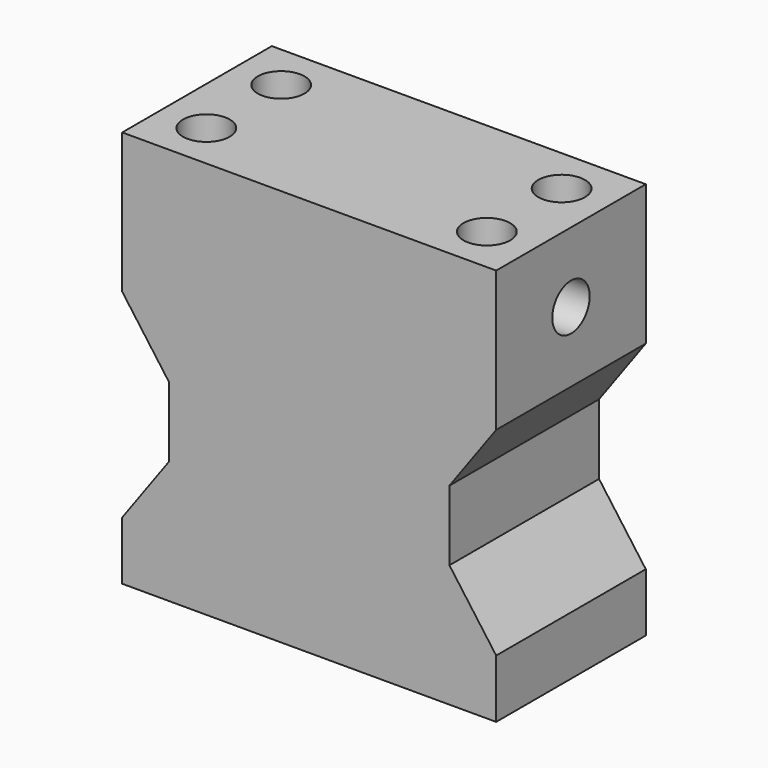
from build123d import *

# Parameters (mm, degrees)
PAD026_DEPTH            = 8
SKETCH051_R             = 2
POCKET019_DEPTH         = 8
SKETCH052_R             = 2
POCKET020_DEPTH         = 8
BODY020_PLACEMENT_ANGLE = 180


with BuildPart() as part:
    # Sketch050 → Pad026 (new body, symmetric)
    with BuildSketch(Plane.XZ):
        Polygon((-16, 38), (16, 38), (16, 26), (12, 20.5), (12, 14.5), (16, 9), (16, 4), (-16, 4), (-16, 9), (-12, 14.5), (-12, 20.5), (-16, 26), align=None)
    extrude(amount=PAD026_DEPTH, both=True)

    # Sketch051 (on Face1 of Pad026) → Pocket019 (cut)
    with BuildSketch(Plane(origin=(0, 0, 38), x_dir=(-1, 0, 0), z_dir=(0, 0, 1))):
        with Locations((-12, 4)):
            Circle(SKETCH051_R)
        with Locations((-12, -4)):
            Circle(SKETCH051_R)
        with Locations((12, -4)):
            Circle(SKETCH051_R)
        with Locations((12, 4)):
            Circle(SKETCH051_R)
    extrude(amount=-POCKET019_DEPTH, mode=Mode.SUBTRACT)

    # Sketch052 (on Face2 of Pocket019) → Pocket020 (cut)
    with BuildSketch(Plane(origin=(-16, 0, 0), x_dir=(0, 0, -1), z_dir=(-1, 0, 0))):
        with Locations((-32, 0)):
            Circle(SKETCH052_R)
    pocket020 = extrude(amount=-POCKET020_DEPTH, mode=Mode.SUBTRACT)

    # Mirrored001: Pocket020 across YZ
    add(pocket020.mirror(Plane.YZ), mode=Mode.SUBTRACT)


with BuildPart() as part_1:
    # Body020 placement: moved
    add(part.part.moved(Location((0, -500, 0))).rotate(Axis((0, -500, 0), (0, 0, 1)), BODY020_PLACEMENT_ANGLE))


solid = part_1.part
